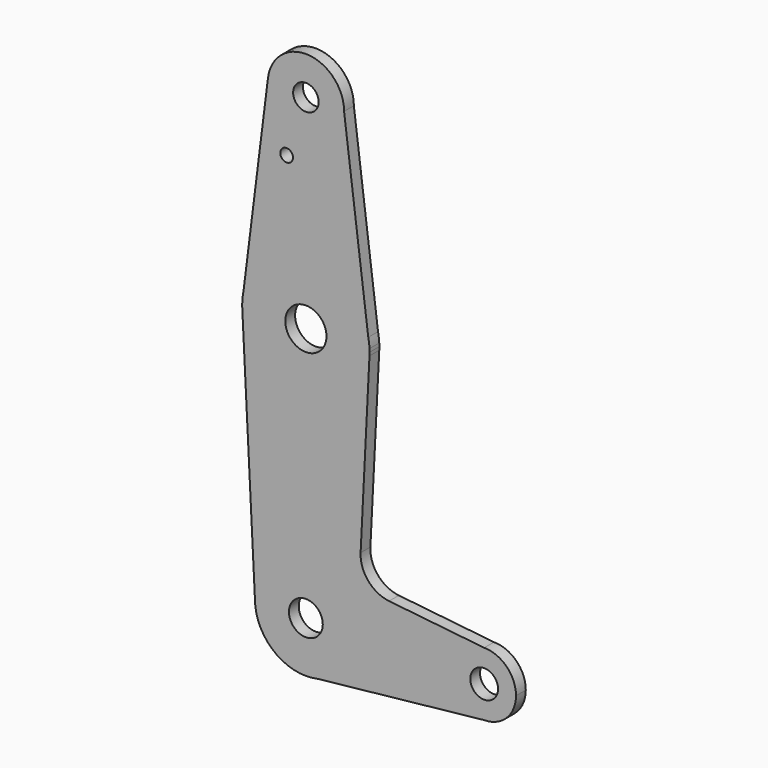
from build123d import *

# Parameters (mm, degrees)
F0_R     = 4.213331
F0_R_2   = 5.128529
F0_R_3   = 3.464696
F0_R_4   = 1.5875
F0_R_5   = 3.175
F1_DEPTH = 3.048


with BuildPart() as f1:
    # F0 (on Front) → F1 (new body)
    with BuildSketch(Plane.XZ):
        with BuildLine():
            Line((2.690542, 12.411728), (0, 12.7))
            ThreePointArc((0, 12.7), (-8.980256, 8.980256), (-12.7, 0))
            ThreePointArc((-12.7, 0), (-8.980256, -8.980256), (0, -12.7))
            Line((0, -12.7), (2.690542, -12.411728))
            ThreePointArc((2.690542, -12.411728), (12.7, 0), (2.690542, 12.411728))
        make_face()
        Circle(F0_R, mode=Mode.SUBTRACT)
        with BuildLine():
            ThreePointArc((-12.7, 0), (-8.980256, 8.980256), (0, 12.7))
            Line((0, 12.7), (2.690542, 12.411728))
            ThreePointArc((2.690542, 12.411728), (12.7, 0), (2.690542, -12.411728))
            Line((2.690542, -12.411728), (44.45, -7.9375))
            ThreePointArc((44.45, -7.9375), (36.5125, 0), (44.45, 7.9375))
            Line((44.45, 7.9375), (20.738262, 10.478043))
            ThreePointArc((20.738262, 10.478043), (15.540023, 13.219546), (13.645066, 18.782519))
            Line((13.645066, 18.782519), (15.854942, 62.702238))
            ThreePointArc((15.854942, 62.702238), (0, 47.625), (-15.854942, 62.702238))
            Line((-15.854942, 62.702238), (-12.7, 0))
        make_face()
        with BuildLine():
            Line((2.690542, -12.411728), (0, -12.7))
            ThreePointArc((0, -12.7), (1.352971, -12.627726), (2.690542, -12.411728))
        make_face()
        with BuildLine():
            ThreePointArc((-15.854942, 64.297762), (-15.875, 63.5), (-15.854942, 62.702238))
            ThreePointArc((-15.854942, 62.702238), (0, 47.625), (15.854942, 62.702238))
            ThreePointArc((15.854942, 62.702238), (15.869985, 63.100993), (15.875, 63.5))
            ThreePointArc((15.875, 63.5), (15.869985, 63.899007), (15.854942, 64.297762))
            Line((15.854942, 64.297762), (15.553577, 66.678343))
            ThreePointArc((15.553577, 66.678343), (-0.023207, 79.374983), (-15.562803, 66.632855))
            Line((-15.562803, 66.632855), (-15.854942, 64.297762))
        make_face()
        with Locations((0, 63.5)):
            Circle(F0_R_2, mode=Mode.SUBTRACT)
        with BuildLine():
            ThreePointArc((-15.562803, 66.632855), (-15.752201, 65.470729), (-15.854942, 64.297762))
            Line((-15.854942, 64.297762), (-15.562803, 66.632855))
        make_face()
        with BuildLine():
            ThreePointArc((44.45, 7.9375), (36.5125, 0), (44.45, -7.9375))
            ThreePointArc((44.45, -7.9375), (50.06266, -5.61266), (52.3875, 0))
            ThreePointArc((52.3875, 0), (50.06266, 5.61266), (44.45, 7.9375))
        make_face()
        with Locations((44.45, 0)):
            Circle(F0_R_3, mode=Mode.SUBTRACT)
        with BuildLine():
            Line((-9.451321, 115.482438), (-15.562803, 66.632855))
            ThreePointArc((-15.562803, 66.632855), (-0.023207, 79.374983), (15.553577, 66.678343))
            Line((15.553577, 66.678343), (9.525, 114.3))
            ThreePointArc((9.525, 114.3), (-0.592365, 104.793438), (-9.451321, 115.482438))
        make_face()
        with Locations((-4.803868, 100.0252)):
            Circle(F0_R_4, mode=Mode.SUBTRACT)
        with BuildLine():
            ThreePointArc((15.854942, 64.297762), (15.749304, 65.493754), (15.553577, 66.678343))
            Line((15.553577, 66.678343), (15.854942, 64.297762))
        make_face()
        with BuildLine():
            ThreePointArc((9.525, 114.3), (0.592365, 123.806562), (-9.451321, 115.482438))
            ThreePointArc((-9.451321, 115.482438), (-0.592365, 104.793438), (9.525, 114.3))
        make_face()
        with Locations((0, 114.3)):
            Circle(F0_R_5, mode=Mode.SUBTRACT)
    extrude(amount=F1_DEPTH)


solid = f1.part
